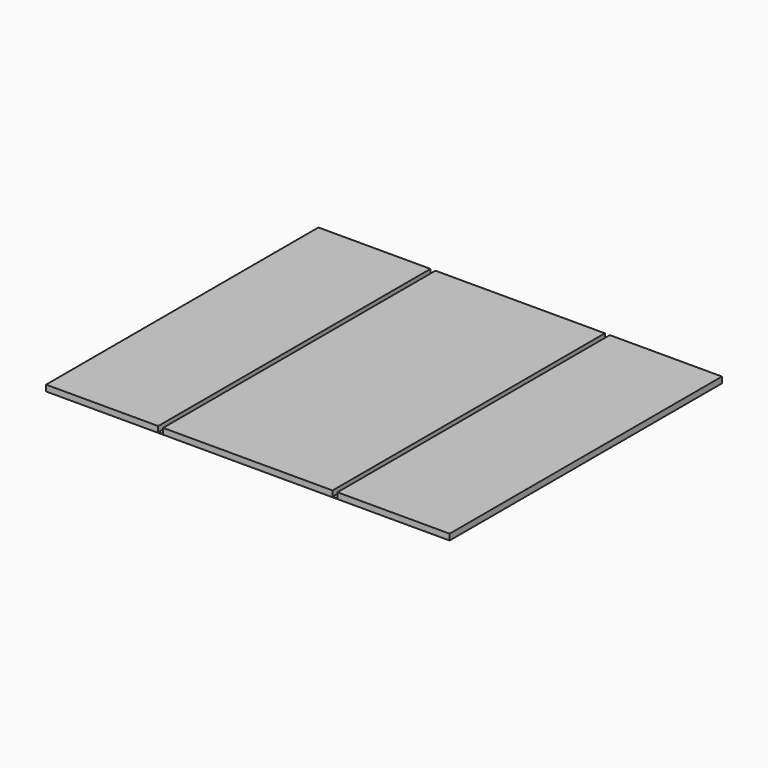
from build123d import *

# Parameters (mm, degrees)
F0_W     = 295
F0_H     = 900
F0_W_2   = 445
F1_DEPTH = 16
F3_DEPTH = 450


with BuildPart() as f1:
    # F0 (on Top) → F1 (new body)
    with BuildSketch(Plane.XY):
        with Locations((-386, 0)):
            Rectangle(F0_W, F0_H)
        Rectangle(F0_W_2, F0_H)
        with Locations((386, 0)):
            Rectangle(F0_W, F0_H)
    extrude(amount=F1_DEPTH)


with BuildPart() as f3:
    # F2 (on Front) → F3 (new body, symmetric)
    with BuildSketch(Plane.XZ):
        Polygon((-237, 16), (-238.5, 16), (-238.5, 0), (-222.5, 0), (-222.5, 16), (-224, 16), (-224, 1.5), (-237, 1.5), align=None)
        Polygon((238.5, 0), (238.5, 16), (237, 16), (237, 1.5), (224, 1.5), (224, 16), (222.5, 16), (222.5, 0), align=None)
    extrude(amount=F3_DEPTH, both=True)


solid = Compound([f1.part, f3.part])
